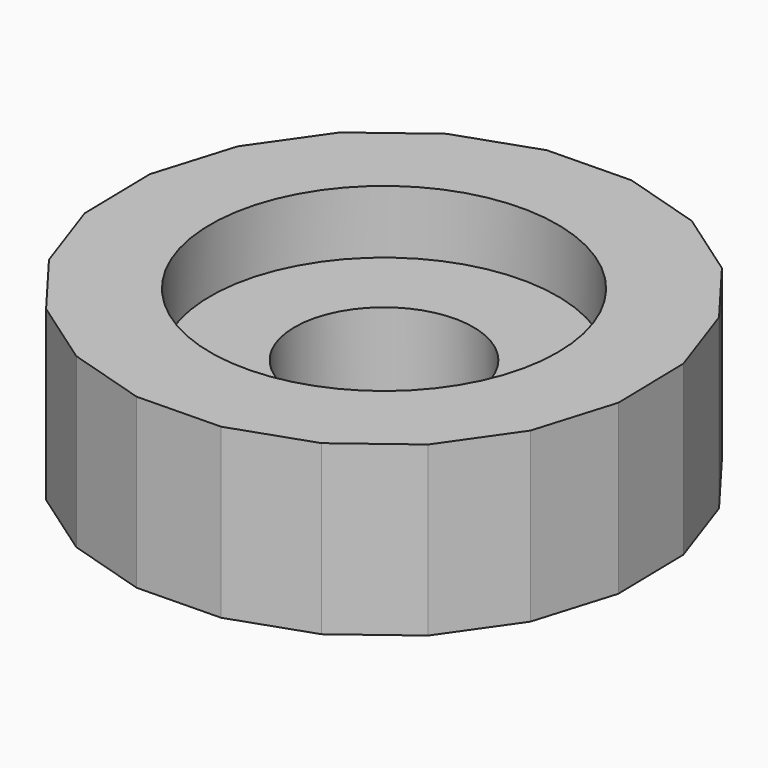
from build123d import *

# Parameters (mm, degrees)
F1_DEPTH = 5
F2_D     = 8.5
F2_DEPTH = 8
F2_TIP   = 2.5536576309
F3_R     = 8.25
F4_DEPTH = 3


with BuildPart() as f1:
    # F0 (on Top) → F1 (new body)
    with BuildSketch(Plane.XY):
        Polygon((8.7752337392, 9.1194792974), (5.5276691469, 11.3848365661), (1.739017785, 12.5357667088), (-2.2198607541, 12.4596086642), (-5.961443856, 11.1638173124), (-9.1194792974, 8.7752337392), (-11.3848365661, 5.5276691469), (-12.5357667088, 1.739017785), (-12.4596086642, -2.2198607541), (-11.1638173124, -5.961443856), (-8.7752337392, -9.1194792974), (-5.5276691469, -11.3848365661), (-1.739017785, -12.5357667088), (2.2198607541, -12.4596086642), (5.961443856, -11.1638173124), (9.1194792974, -8.7752337392), (11.3848365661, -5.5276691469), (12.5357667088, -1.739017785), (12.4596086642, 2.2198607541), (11.1638173124, 5.961443856), align=None)
    extrude(amount=F1_DEPTH)

    # F2
    with Locations(Plane(origin=(0, 0, 0), x_dir=(1, 0, 0), z_dir=(0, 0, -1))):
        with Locations((0, 0)):
            Hole(F2_D / 2, depth=F2_DEPTH)
            with Locations((0, 0, -(F2_DEPTH + F2_TIP / 2))):  # 118° drill point
                Cone(0, F2_D / 2, F2_TIP, mode=Mode.SUBTRACT)

    # F3 (on face) → F4 (join)
    with BuildSketch(Plane.XY.offset(5)):
        Polygon((-1.739017785, -12.5357667088), (2.2198607541, -12.4596086642), (5.961443856, -11.1638173124), (9.1194792974, -8.7752337392), (11.3848365661, -5.5276691469), (12.5357667088, -1.739017785), (12.4596086642, 2.2198607541), (11.1638173124, 5.961443856), (8.7752337392, 9.1194792974), (5.5276691469, 11.3848365661), (1.739017785, 12.5357667088), (-2.2198607541, 12.4596086642), (-5.961443856, 11.1638173124), (-9.1194792974, 8.7752337392), (-11.3848365661, 5.5276691469), (-12.5357667088, 1.739017785), (-12.4596086642, -2.2198607541), (-11.1638173124, -5.961443856), (-8.7752337392, -9.1194792974), (-5.5276691469, -11.3848365661), align=None)
        Circle(F3_R, mode=Mode.SUBTRACT)
    extrude(amount=F4_DEPTH)


solid = f1.part
